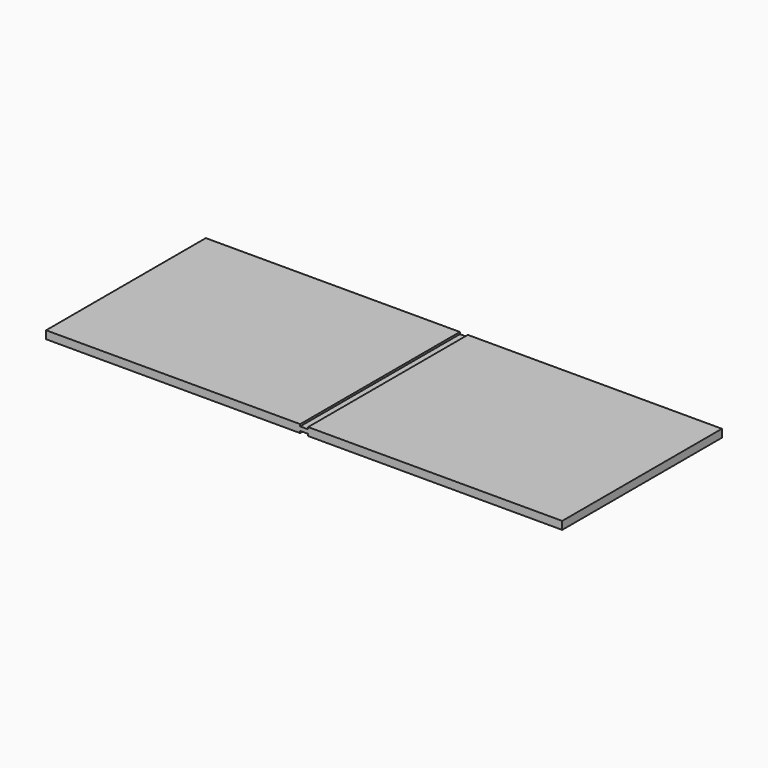
from build123d import *

# Parameters (mm, degrees)
F1_DEPTH = 406.35
F2_W     = 6.35
F2_H     = 7.9532051459
F3_DEPTH = 525


with BuildPart() as f1:
    # F0 (on Front) → F1 (new body)
    with BuildSketch(Plane.XZ):
        Polygon((517.06, 0), (517.06, 7.9375), (7.94, 7.9375), (7.94, 3.9675), (-7.94, 3.9675), (-7.94, 7.9375), (-517.06, 7.9375), (-517.06, 0), (-517.06, -7.9375), (-7.94, -7.9375), (-7.94, -3.9675), (7.94, -3.9675), (7.94, -7.9375), (517.06, -7.9375), align=None)
    extrude(amount=F1_DEPTH)

    # F2 (on Right) → F3 (cut, symmetric)
    with BuildSketch(Plane.YZ):
        with Locations((-3.175, -3.9766025729)):
            Rectangle(F2_W, F2_H)
        with Locations((-3.175, 3.9766025729)):
            Rectangle(F2_W, F2_H)
    extrude(amount=F3_DEPTH, both=True, mode=Mode.SUBTRACT)


solid = f1.part
